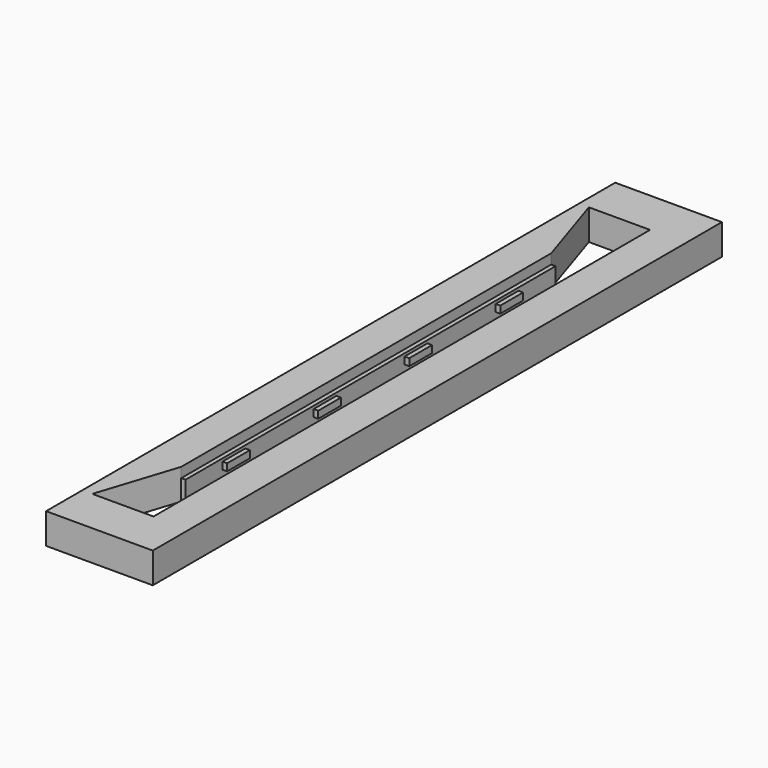
from build123d import *

# Parameters (mm, degrees)
F0_W     = 7.62
F0_H     = 50.8
F1_DEPTH = 2.1844
F3_DEPTH = 16.51
F4_W     = 2.794
F4_H     = 1.5748
F4_W_2   = 2.9464
F4_W_3   = 1.7272
F5_DEPTH = 0.3683
F6_W     = 2.032
F6_H     = 0.508
F7_DEPTH = 0.3302
F9_DEPTH = 25.4


with BuildPart() as f1:
    # F0 (on Top) → F1 (new body)
    with BuildSketch(Plane.XY):
        Rectangle(F0_W, F0_H)
    extrude(amount=F1_DEPTH)

    # F2 (on Front) → F3 (cut, symmetric)
    with BuildSketch(Plane.XZ):
        Polygon((-0.9652, 0), (1.27, 0), (1.27, 2.1844), (-1.27, 2.1844), (-1.27, 1.4732), (-0.9652, 1.4732), align=None)
    extrude(amount=F3_DEPTH, both=True, mode=Mode.SUBTRACT)

    # F4 (on face) → F5 (join)
    with BuildSketch(Plane(origin=(1.27, 0, 0), x_dir=(0, -1, 0), z_dir=(-1, 0, 0))):
        with Locations((0, 0.7874)):
            Rectangle(F4_W, F4_H)
        with Locations((-8.2042, 0.7874)):
            Rectangle(F4_W_2, F4_H)
        with Locations((8.2042, 0.7874)):
            Rectangle(F4_W_2, F4_H)
        with Locations((-15.6464, 0.7874)):
            Rectangle(F4_W_3, F4_H)
        with Locations((15.6464, 0.7874)):
            Rectangle(F4_W_3, F4_H)
    extrude(amount=F5_DEPTH)

    # F6 (on face) → F7 (join)
    with BuildSketch(Plane.YZ.offset(-0.9652)):
        with Locations((-4.064, 1.016)):
            Rectangle(F6_W, F6_H)
        with Locations((4.064, 1.016)):
            Rectangle(F6_W, F6_H)
        with Locations((-12.192, 1.016)):
            Rectangle(F6_W, F6_H)
        with Locations((12.192, 1.016)):
            Rectangle(F6_W, F6_H)
    extrude(amount=F7_DEPTH)

    # F8 (on face) → F9 (cut)
    with BuildSketch(Plane.XY.offset(2.1844)):
        Polygon((-3.100628, 22.160923), (-1.27, 16.51), (1.27, 16.51), (1.27, 22.160923), align=None)
        Polygon((1.27, -16.51), (-1.27, -16.51), (-3.100628, -22.160923), (1.27, -22.160923), align=None)
    extrude(amount=-F9_DEPTH, mode=Mode.SUBTRACT)


with BuildPart() as f10_1:
    # F10: copy of F1
    add(f1.part.moved(Location((7.62, 0, 0))))


with BuildPart() as f11_1:
    # F11: copy of F10_1
    add(f10_1.part.moved(Location((7.62, 0, 0))))


with BuildPart() as f12_1:
    # F12: copy of F11_1
    add(f11_1.part.moved(Location((7.62, 0, 0))))


solid = f1.part
